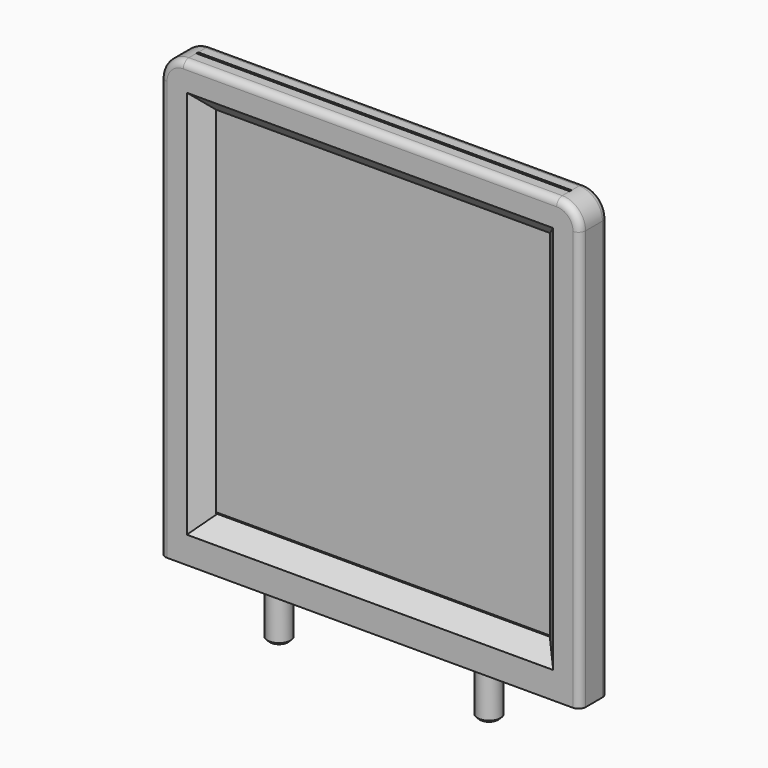
from build123d import *

# Parameters (mm, degrees)
PAD_DEPTH       = 7.5
SKETCH001_W     = 157
SKETCH001_H     = 166.73666
POCKET_DEPTH    = 8
CHAMFER_SIZE    = 7.99
SKETCH002_R     = 4.9
PAD001_DEPTH    = 20
CHAMFER001_SIZE = 1
FILLET_R        = 3
SKETCH003_W     = 160
SKETCH003_H     = 1
POCKET001_DEPTH = 171


with BuildPart() as part:
    # Sketch → Pad (new body, symmetric)
    with BuildSketch(Plane.XZ):
        with BuildLine():
            Line((-90, 89.73666), (-90, -90))
            Line((-90, -90), (90, -90))
            Line((90, -90), (90, 89.73666))
            ThreePointArc((90, 89.73666), (87.071068, 96.807727), (80, 99.73666))
            Line((80, 99.73666), (-80, 99.73666))
            ThreePointArc((-80, 99.73666), (-87.071068, 96.807727), (-90, 89.73666))
        make_face()
    extrude(amount=PAD_DEPTH, both=True)

    # Sketch001 (on Face8 of Pad) → Pocket (cut)
    with BuildSketch(Plane.XZ.offset(7.5)):
        with Locations((0, 4.86833)):
            Rectangle(SKETCH001_W, SKETCH001_H)
    extrude(amount=-POCKET_DEPTH, mode=Mode.SUBTRACT)

    # Chamfer
    chamfer_edges = [part.edges().sort_by_distance(p)[0] for p in [
        (0, 0.5, 88.23666),
        (-78.5, 0.5, 4.86833),
        (0, 0.5, -78.5),
        (78.5, 0.5, 4.86833),
    ]]
    chamfer(chamfer_edges, length=CHAMFER_SIZE)

    # Sketch002 (on Face3 of Pocket) → Pad001 (join)
    with BuildSketch(Plane(origin=(0, 0, -90), x_dir=(1, 0, 0), z_dir=(0, 0, -1))):
        with Locations((-45, 0)):
            Circle(SKETCH002_R)
        with Locations((45, 0)):
            Circle(SKETCH002_R)
    extrude(amount=PAD001_DEPTH)

    # Chamfer001
    chamfer001_edges = [part.edges().sort_by_distance(p)[0] for p in [
        (40.1, 0, -90),
        (-49.9, 0, -90),
        (-49.9, 0, -110),
        (40.1, 0, -110),
    ]]
    chamfer(chamfer001_edges, length=CHAMFER001_SIZE)

    # Fillet
    fillet_edges = [part.edges().sort_by_distance(p)[0] for p in [
        (90, -7.5, -0.13167),
        (90, 7.5, -0.13167),
    ]]
    fillet(fillet_edges, radius=FILLET_R)

    # Sketch003 (on Face26 of Fillet) → Pocket001 (cut)
    with BuildSketch(Plane(origin=(0, 0, 99.73666), x_dir=(-1, 0, 0), z_dir=(0, 0, 1))):
        Rectangle(SKETCH003_W, SKETCH003_H)
    extrude(amount=-POCKET001_DEPTH, mode=Mode.SUBTRACT)


solid = part.part
